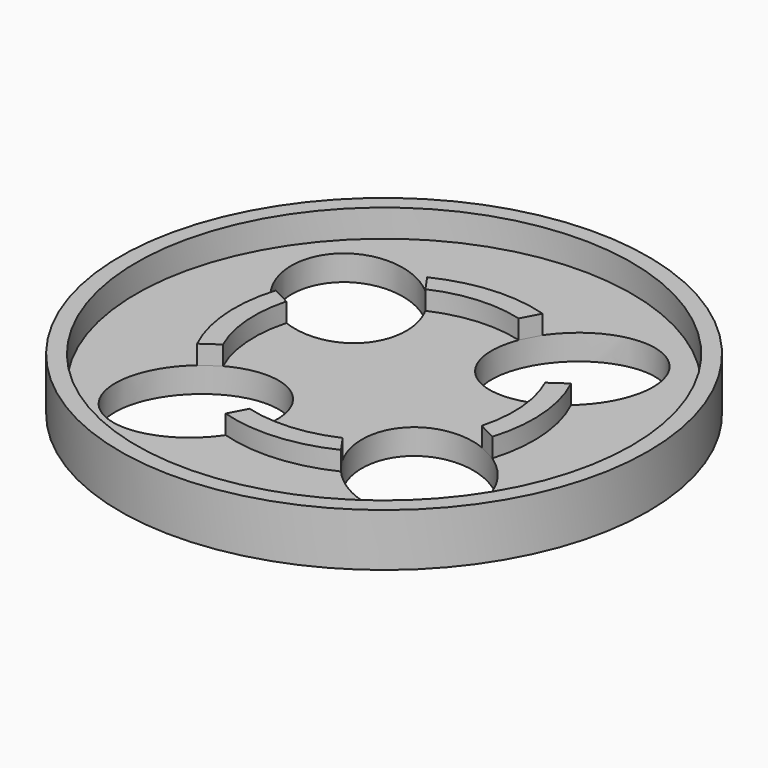
from build123d import *

# Parameters (mm, degrees)
F0_R     = 12.5
F1_DEPTH = 2.5
F2_R     = 11.730233
F3_DEPTH = 1.3
F5_DEPTH = 0.9
F6_DEPTH = 0.9


with BuildPart() as f1:
    # F0 (on Top) → F1 (new body)
    with BuildSketch(Plane.XY):
        Circle(F0_R)
        with BuildLine():
            add(Edge.make_bspline(
                [(-2.158739, -2.726854), (-5.810141, 0.681122), (-7.678911, -4.981227), (-9.547681, -10.643577), (-4.027509, -8.389203), (1.492664, -6.13483), (-2.158739, -2.726854)],
                knots=[0, 0, 0, 2.094395, 2.094395, 4.18879, 4.18879, 6.283185, 6.283185, 6.283185], degree=2, weights=[1, 0.5, 1, 0.5, 1, 0.5, 1]))
        make_face(mode=Mode.SUBTRACT)
        with BuildLine():
            add(Edge.make_bspline(
                [(2.726854, -2.158739), (-0.681122, -5.810141), (4.981227, -7.678911), (10.643577, -9.547681), (8.389203, -4.027509), (6.13483, 1.492664), (2.726854, -2.158739)],
                knots=[0, 0, 0, 2.094395, 2.094395, 4.18879, 4.18879, 6.283185, 6.283185, 6.283185], degree=2, weights=[1, 0.5, 1, 0.5, 1, 0.5, 1]))
        make_face(mode=Mode.SUBTRACT)
        with BuildLine():
            add(Edge.make_bspline(
                [(-2.726854, 2.158739), (0.681122, 5.810141), (-4.981227, 7.678911), (-10.643577, 9.547681), (-8.389203, 4.027509), (-6.13483, -1.492664), (-2.726854, 2.158739)],
                knots=[0, 0, 0, 2.094395, 2.094395, 4.18879, 4.18879, 6.283185, 6.283185, 6.283185], degree=2, weights=[1, 0.5, 1, 0.5, 1, 0.5, 1]))
        make_face(mode=Mode.SUBTRACT)
        with BuildLine():
            add(Edge.make_bspline(
                [(2.158739, 2.726854), (5.810141, -0.681122), (7.678911, 4.981227), (9.547681, 10.643577), (4.027509, 8.389203), (-1.492664, 6.13483), (2.158739, 2.726854)],
                knots=[0, 0, 0, 2.094395, 2.094395, 4.18879, 4.18879, 6.283185, 6.283185, 6.283185], degree=2, weights=[1, 0.5, 1, 0.5, 1, 0.5, 1]))
        make_face(mode=Mode.SUBTRACT)
    extrude(amount=F1_DEPTH)

    # F2 (on face) → F3 (cut)
    with BuildSketch(Plane.XY.offset(2.5)):
        Circle(F2_R)
        with BuildLine():
            add(Edge.make_bspline(
                [(-2.158739, -2.726854), (-5.810141, 0.681122), (-7.678911, -4.981227), (-9.547681, -10.643577), (-4.027509, -8.389203), (1.492664, -6.13483), (-2.158739, -2.726854)],
                knots=[0, 0, 0, 2.094395, 2.094395, 4.18879, 4.18879, 6.283185, 6.283185, 6.283185], degree=2, weights=[1, 0.5, 1, 0.5, 1, 0.5, 1]))
        make_face(mode=Mode.SUBTRACT)
        with BuildLine():
            add(Edge.make_bspline(
                [(2.726854, -2.158739), (-0.681122, -5.810141), (4.981227, -7.678911), (10.643577, -9.547681), (8.389203, -4.027509), (6.13483, 1.492664), (2.726854, -2.158739)],
                knots=[0, 0, 0, 2.094395, 2.094395, 4.18879, 4.18879, 6.283185, 6.283185, 6.283185], degree=2, weights=[1, 0.5, 1, 0.5, 1, 0.5, 1]))
        make_face(mode=Mode.SUBTRACT)
        with BuildLine():
            add(Edge.make_bspline(
                [(-2.726854, 2.158739), (0.681122, 5.810141), (-4.981227, 7.678911), (-10.643577, 9.547681), (-8.389203, 4.027509), (-6.13483, -1.492664), (-2.726854, 2.158739)],
                knots=[0, 0, 0, 2.094395, 2.094395, 4.18879, 4.18879, 6.283185, 6.283185, 6.283185], degree=2, weights=[1, 0.5, 1, 0.5, 1, 0.5, 1]))
        make_face(mode=Mode.SUBTRACT)
        with BuildLine():
            add(Edge.make_bspline(
                [(2.158739, 2.726854), (5.810141, -0.681122), (7.678911, 4.981227), (9.547681, 10.643577), (4.027509, 8.389203), (-1.492664, 6.13483), (2.158739, 2.726854)],
                knots=[0, 0, 0, 2.094395, 2.094395, 4.18879, 4.18879, 6.283185, 6.283185, 6.283185], degree=2, weights=[1, 0.5, 1, 0.5, 1, 0.5, 1]))
        make_face(mode=Mode.SUBTRACT)
    extrude(amount=-F3_DEPTH, mode=Mode.SUBTRACT)


with BuildPart() as f5:
    # F4 (on face) → F5 (new body)
    with BuildSketch(Plane.XY.offset(1.2)):
        with BuildLine():
            Line((-5.930381, 1.628828), (-6.785749, 2.076978))
            ThreePointArc((-6.785749, 2.076978), (-7.076235, -0.535847), (-6.395606, -3.075133))
            Line((-6.395606, -3.075133), (-5.606773, -2.527172))
            ThreePointArc((-5.606773, -2.527172), (-6.131441, -0.477426), (-5.930381, 1.628828))
        make_face()
        with BuildLine():
            Line((1.628828, 5.930381), (2.076978, 6.785749))
            ThreePointArc((2.076978, 6.785749), (-0.535847, 7.076235), (-3.075133, 6.395606))
            Line((-3.075133, 6.395606), (-2.527172, 5.606773))
            ThreePointArc((-2.527172, 5.606773), (-0.477426, 6.131441), (1.628828, 5.930381))
        make_face()
        with BuildLine():
            ThreePointArc((5.606773, 2.527172), (6.131441, 0.477426), (5.930381, -1.628828))
            Line((5.930381, -1.628828), (6.785749, -2.076978))
            ThreePointArc((6.785749, -2.076978), (7.076235, 0.535847), (6.395606, 3.075133))
            Line((6.395606, 3.075133), (5.606773, 2.527172))
        make_face()
        with BuildLine():
            ThreePointArc((2.527172, -5.606773), (0.477426, -6.131441), (-1.628828, -5.930381))
            Line((-1.628828, -5.930381), (-2.076978, -6.785749))
            ThreePointArc((-2.076978, -6.785749), (0.535847, -7.076235), (3.075133, -6.395606))
            Line((3.075133, -6.395606), (2.527172, -5.606773))
        make_face()
    extrude(amount=F5_DEPTH)


with BuildPart() as f6:
    # F4 (on face) → F6 (new body)
    with BuildSketch(Plane.XY.offset(1.2)):
        with BuildLine():
            Line((-5.930381, 1.628828), (-6.785749, 2.076978))
            ThreePointArc((-6.785749, 2.076978), (-7.076235, -0.535847), (-6.395606, -3.075133))
            Line((-6.395606, -3.075133), (-5.606773, -2.527172))
            ThreePointArc((-5.606773, -2.527172), (-6.131441, -0.477426), (-5.930381, 1.628828))
        make_face()
        with BuildLine():
            Line((1.628828, 5.930381), (2.076978, 6.785749))
            ThreePointArc((2.076978, 6.785749), (-0.535847, 7.076235), (-3.075133, 6.395606))
            Line((-3.075133, 6.395606), (-2.527172, 5.606773))
            ThreePointArc((-2.527172, 5.606773), (-0.477426, 6.131441), (1.628828, 5.930381))
        make_face()
        with BuildLine():
            ThreePointArc((5.606773, 2.527172), (6.131441, 0.477426), (5.930381, -1.628828))
            Line((5.930381, -1.628828), (6.785749, -2.076978))
            ThreePointArc((6.785749, -2.076978), (7.076235, 0.535847), (6.395606, 3.075133))
            Line((6.395606, 3.075133), (5.606773, 2.527172))
        make_face()
        with BuildLine():
            ThreePointArc((2.527172, -5.606773), (0.477426, -6.131441), (-1.628828, -5.930381))
            Line((-1.628828, -5.930381), (-2.076978, -6.785749))
            ThreePointArc((-2.076978, -6.785749), (0.535847, -7.076235), (3.075133, -6.395606))
            Line((3.075133, -6.395606), (2.527172, -5.606773))
        make_face()
    extrude(amount=F6_DEPTH)


solid = Compound([f1.part, f5.part, f6.part])
